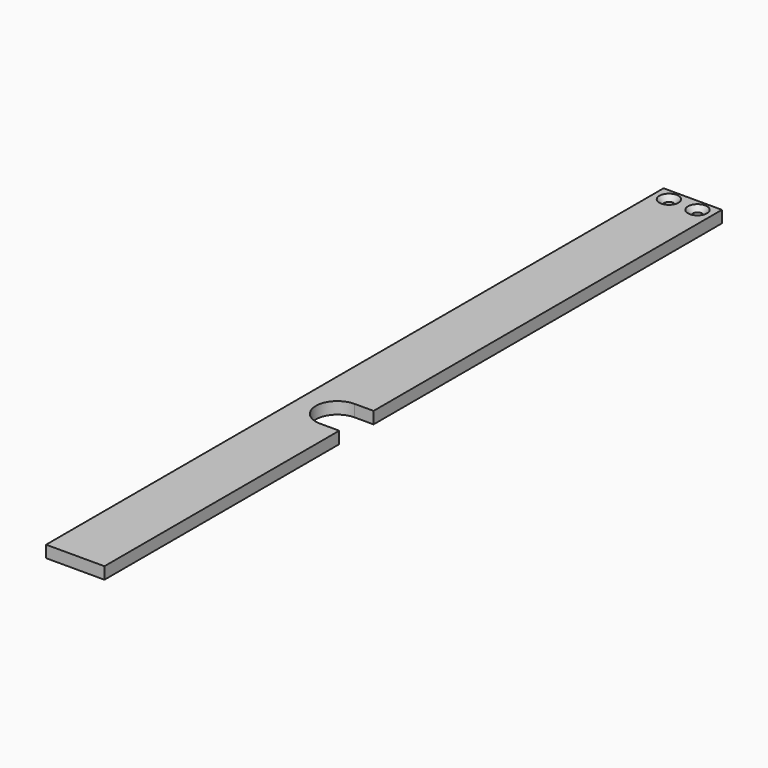
from build123d import *

# Parameters (mm, degrees)
PAD025_DEPTH    = 5
SKETCH057_R     = 2
POCKET035_DEPTH = 5.001
CHAMFER019_SIZE = 2


with BuildPart() as part:
    # Sketch051 → Pad025 (new body)
    with BuildSketch(Plane.XY):
        with BuildLine():
            Line((-171.323184, 15.404903), (-171.323184, -107.8))
            Line((-171.323184, -107.8), (-195.823184, -107.8))
            Line((-195.823184, -107.8), (-195.823184, 216.2))
            Line((-195.823184, 216.2), (-171.323184, 216.2))
            Line((-171.323184, 216.2), (-171.323184, 33.404903))
            Line((-179.323184, 33.404903), (-171.323184, 33.404903))
            ThreePointArc((-179.323184, 33.404903), (-188.323184, 24.404903), (-179.323184, 15.404903))
            Line((-179.323184, 15.404903), (-171.323184, 15.404903))
        make_face()
    extrude(amount=PAD025_DEPTH)

    # Sketch057 (on Face10 of Pad025) → Pocket035 (cut, through all)
    with BuildSketch(Plane.XY.offset(5)):
        with Locations((-189.573184, 211.2)):
            Circle(SKETCH057_R)
        with Locations((-177.573184, 211.2)):
            Circle(SKETCH057_R)
    extrude(amount=-POCKET035_DEPTH, mode=Mode.SUBTRACT)

    # Chamfer019
    chamfer019_edges = [part.edges().sort_by_distance(p)[0] for p in [
        (-191.573184, 211.2, 5),
        (-179.573184, 211.2, 5),
    ]]
    chamfer(chamfer019_edges, length=CHAMFER019_SIZE)


with BuildPart() as part_1:
    # Body018 placement: moved
    add(part.part.moved(Location((0, 0, 15.5))))


with BuildPart() as part_2:
    # Clone placement: moved
    add(part_1.part.moved(Location((195.823184, 107.8, -20.5))))


solid = part_2.part
